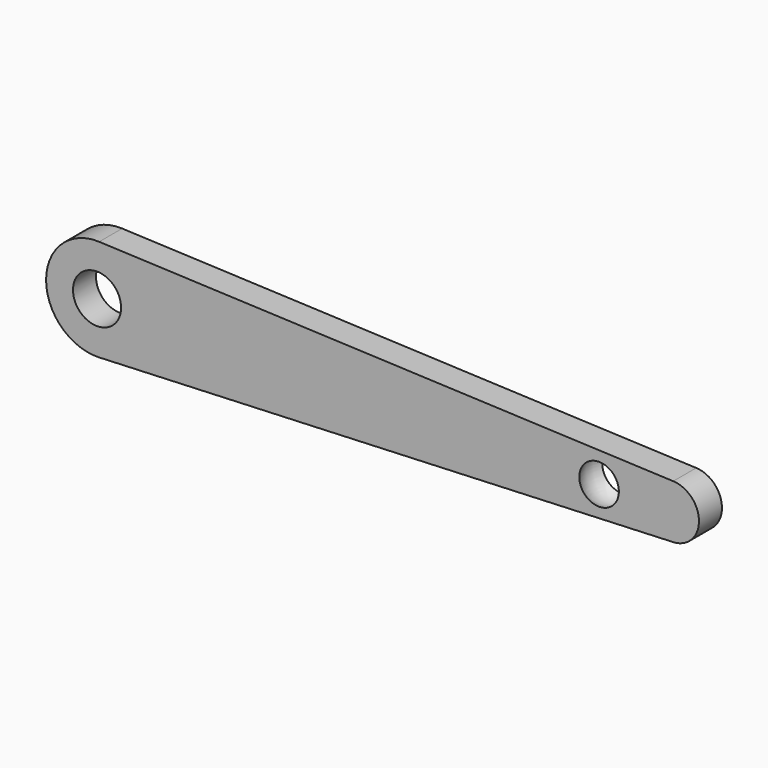
from build123d import *

# Parameters (mm, degrees)
F0_R          = 6.379421
F1_DEPTH      = 3.81
F4_R          = 3.766918
F5_DEPTH      = 6.482047
F5_DEPTH_BACK = 6.482047


with BuildPart() as f1:
    # F0 (on Front) → F1 (new body, symmetric)
    with BuildSketch(Plane.XZ):
        with BuildLine():
            Line((100.639283, 7.11658), (-51.626859, 13.502661))
            ThreePointArc((-51.626859, 13.502661), (-65.707695, 0), (-51.626859, -13.502661))
            Line((-51.626859, -13.502661), (100.639283, -7.11658))
            ThreePointArc((100.639283, -7.11658), (107.463648, 0), (100.639283, 7.11658))
        make_face()
        with Locations((-52.193164, 0)):
            Circle(F0_R, mode=Mode.SUBTRACT)
    extrude(amount=F1_DEPTH, both=True)

    # F2 (on Front) → F3 (revolve, cut)
    with BuildSketch(Plane.XZ):
        with BuildLine():
            Line((80.96154, -6.481047), (80.96154, 6.481047))
            ThreePointArc((80.96154, 6.481047), (74.480494, 0), (80.96154, -6.481047))
        make_face()
    revolve(axis=Axis((80.96154, 0, 0), (0, 0, -1)), mode=Mode.SUBTRACT)

    # F4 (on Front) → F5 (cut, two sides)
    with BuildSketch(Plane.XZ) as f5_sk:
        with Locations((80.96154, 0)):
            Circle(F4_R)
    extrude(amount=-F5_DEPTH, mode=Mode.SUBTRACT)
    extrude(f5_sk.sketch, amount=-F5_DEPTH_BACK, mode=Mode.SUBTRACT)


solid = f1.part
